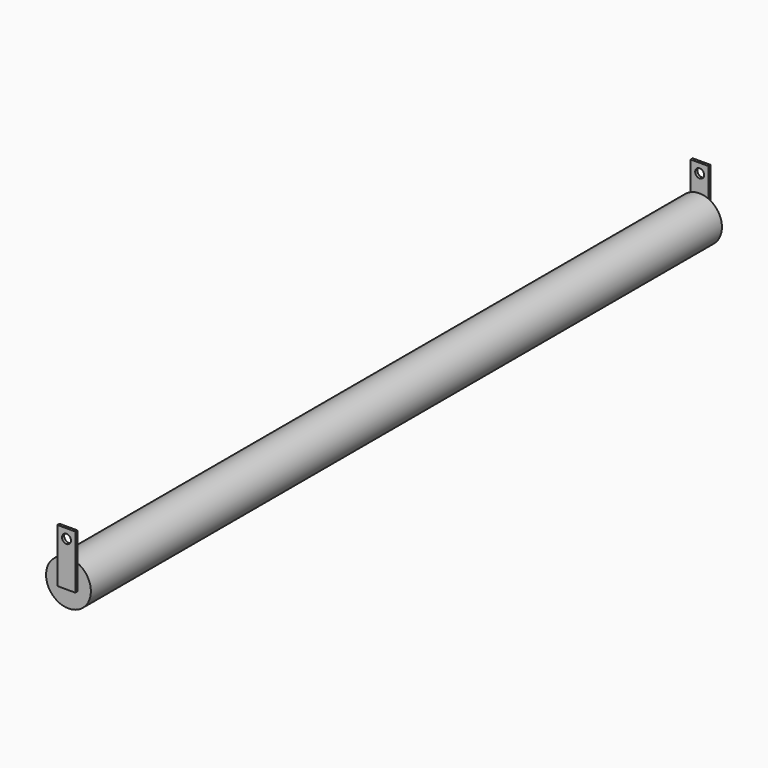
from build123d import *

# Parameters (mm, degrees)
F0_R     = 25
F1_DEPTH = 880
F2_R     = 5
F3_DEPTH = 3
F4_R     = 5
F5_DEPTH = 3


with BuildPart() as f1:
    # F0 (on Front) → F1 (new body)
    with BuildSketch(Plane.XZ):
        Circle(F0_R)
    extrude(amount=F1_DEPTH)

    # F2 (on face) → F3 (join)
    with BuildSketch(Plane.XZ.offset(880)):
        with BuildLine():
            Line((10, 55), (-10, 55))
            Line((-10, 55), (-10, 22.912878))
            ThreePointArc((-10, 22.912878), (0, 25), (10, 22.912878))
            Line((10, 22.912878), (10, 55))
        make_face()
        with Locations((0.225252, 44.60642)):
            Circle(F2_R, mode=Mode.SUBTRACT)
        with BuildLine():
            ThreePointArc((10, 22.912878), (0, 25), (-10, 22.912878))
            Line((-10, 22.912878), (-10, -5))
            Line((-10, -5), (10, -5))
            Line((10, -5), (10, 22.912878))
        make_face()
    extrude(amount=F3_DEPTH)

    # F4 (on face) → F5 (join)
    with BuildSketch(Plane(origin=(0, 0, 0), x_dir=(-1, 0, 0), z_dir=(0, 1, 0))):
        with BuildLine():
            ThreePointArc((10, 22.912878), (0, 25), (-10, 22.912878))
            Line((-10, 22.912878), (-10, -5))
            Line((-10, -5), (10, -5))
            Line((10, -5), (10, 22.912878))
        make_face()
        with BuildLine():
            Line((10, 55), (-10, 55))
            Line((-10, 55), (-10, 22.912878))
            ThreePointArc((-10, 22.912878), (0, 25), (10, 22.912878))
            Line((10, 22.912878), (10, 55))
        make_face()
        with Locations((-0.179578, 44.637514)):
            Circle(F4_R, mode=Mode.SUBTRACT)
    extrude(amount=F5_DEPTH)


solid = f1.part
